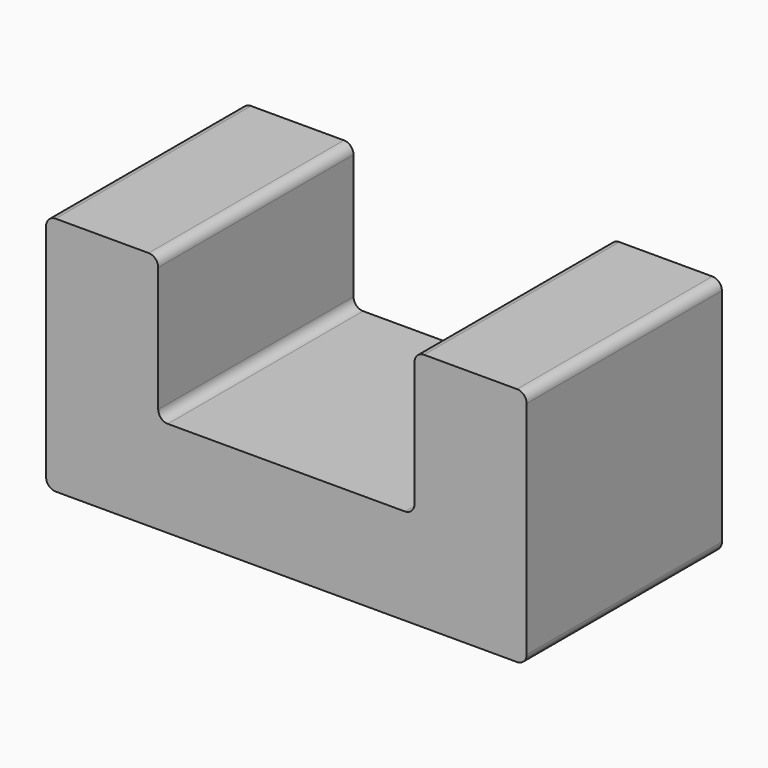
from build123d import *

# Parameters (mm, degrees)
F1_DEPTH = 76.2


with BuildPart() as f1:
    # F0 (on Front) → F1 (new body)
    with BuildSketch(Plane.XZ):
        with BuildLine():
            ThreePointArc((-75, -34.5), (-74.12132, -36.62132), (-72, -37.5))
            Line((-72, -37.5), (72, -37.5))
            ThreePointArc((72, -37.5), (74.12132, -36.62132), (75, -34.5))
            Line((75, -34.5), (75, 34.5))
            ThreePointArc((75, 34.5), (74.12132, 36.62132), (72, 37.5))
            Line((72, 37.5), (43, 37.5))
            ThreePointArc((43, 37.5), (40.87868, 36.62132), (40, 34.5))
            Line((40, 34.5), (40, -4.5))
            ThreePointArc((40, -4.5), (39.12132, -6.62132), (37, -7.5))
            Line((37, -7.5), (-37, -7.5))
            ThreePointArc((-37, -7.5), (-39.12132, -6.62132), (-40, -4.5))
            Line((-40, -4.5), (-40, 34.5))
            ThreePointArc((-40, 34.5), (-40.87868, 36.62132), (-43, 37.5))
            Line((-43, 37.5), (-72, 37.5))
            ThreePointArc((-72, 37.5), (-74.12132, 36.62132), (-75, 34.5))
            Line((-75, 34.5), (-75, -34.5))
        make_face()
    extrude(amount=F1_DEPTH)


solid = f1.part
